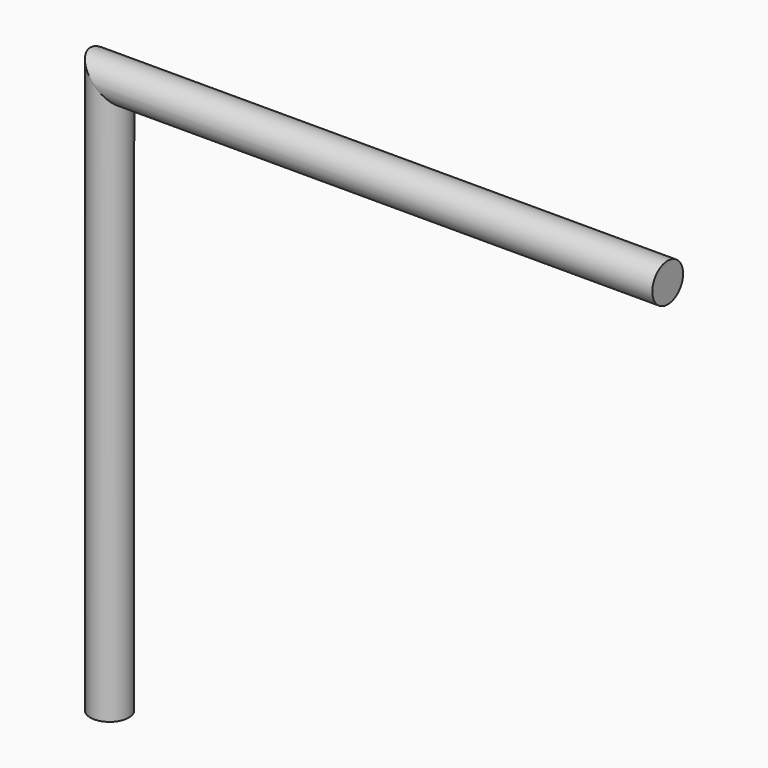
from build123d import *

# Parameters (mm, degrees)
F0_R = 17.2736790235


with BuildPart() as f2:
    # F2: sweep along a path in F1
    with BuildLine(Plane.XZ) as f2_path:
        Line((0, 0), (0, 500.2549290657))
        Line((0, 500.2549290657), (500.1642107964, 500.2549290657))
    # F0 (on Top) → F2 (sweep)
    with BuildSketch(Plane.XY):
        Circle(F0_R)
    sweep(path=f2_path.line, transition=Transition.RIGHT)


solid = f2.part
